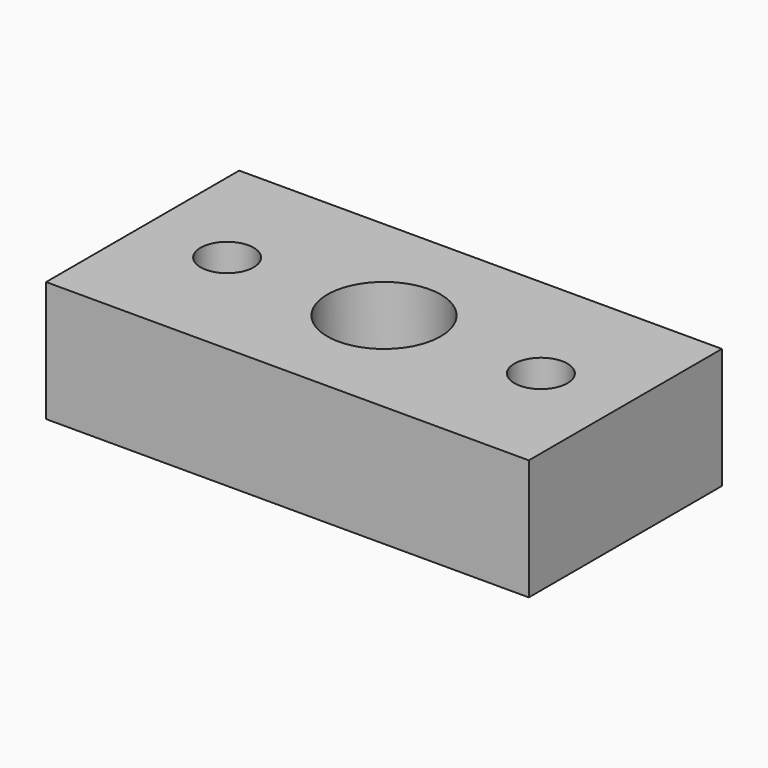
from build123d import *

# Parameters (mm, degrees)
CYLINDER007_R     = 2.2
CYLINDER007_DEPTH = 15
CYLINDER006_R     = 2.2
CYLINDER006_DEPTH = 15
CYLINDER005_R     = 4.7
CYLINDER005_DEPTH = 15
CYLINDER004_R     = 3.5
CYLINDER004_DEPTH = 15
BOX001006_W       = 40
BOX001006_H       = 20
BOX001006_DEPTH   = 10


with BuildPart() as cylinder007:
    # Cylinder007 → Cylinder007 (new body)
    with BuildSketch(Plane(origin=(33, 10, -1), x_dir=(1, 0, 0), z_dir=(0, 0, 1))):
        Circle(CYLINDER007_R)
    extrude(amount=CYLINDER007_DEPTH)


with BuildPart() as fusion004:
    # Cylinder006 → Cylinder006 (new body)
    with BuildSketch(Plane(origin=(7, 10, -1), x_dir=(1, 0, 0), z_dir=(0, 0, 1))):
        Circle(CYLINDER006_R)
    extrude(amount=CYLINDER006_DEPTH)

    # Fusion004: union Cylinder007
    add(cylinder007.part)


with BuildPart() as cylinder005:
    # Cylinder005 → Cylinder005 (new body)
    with BuildSketch(Plane(origin=(20, 10, 5), x_dir=(1, 0, 0), z_dir=(0, 0, 1))):
        Circle(CYLINDER005_R)
    extrude(amount=CYLINDER005_DEPTH)


with BuildPart() as fusion003:
    # Cylinder004 → Cylinder004 (new body)
    with BuildSketch(Plane(origin=(20, 10, -1), x_dir=(1, 0, 0), z_dir=(0, 0, 1))):
        Circle(CYLINDER004_R)
    extrude(amount=CYLINDER004_DEPTH)

    # Fusion003: union Cylinder005
    add(cylinder005.part)


with BuildPart() as cut004:
    # Box001006 → Box001006 (new body)
    with BuildSketch(Plane.XY):
        with Locations((20, 10)):
            Rectangle(BOX001006_W, BOX001006_H)
    extrude(amount=BOX001006_DEPTH)

    # Cut003: cut Fusion003
    add(fusion003.part, mode=Mode.SUBTRACT)

    # Cut004: cut Fusion004
    add(fusion004.part, mode=Mode.SUBTRACT)


with BuildPart() as cut004_1:
    # Cut004 placement: moved
    add(cut004.part.moved(Location((0, 0, 34))))


solid = cut004_1.part
